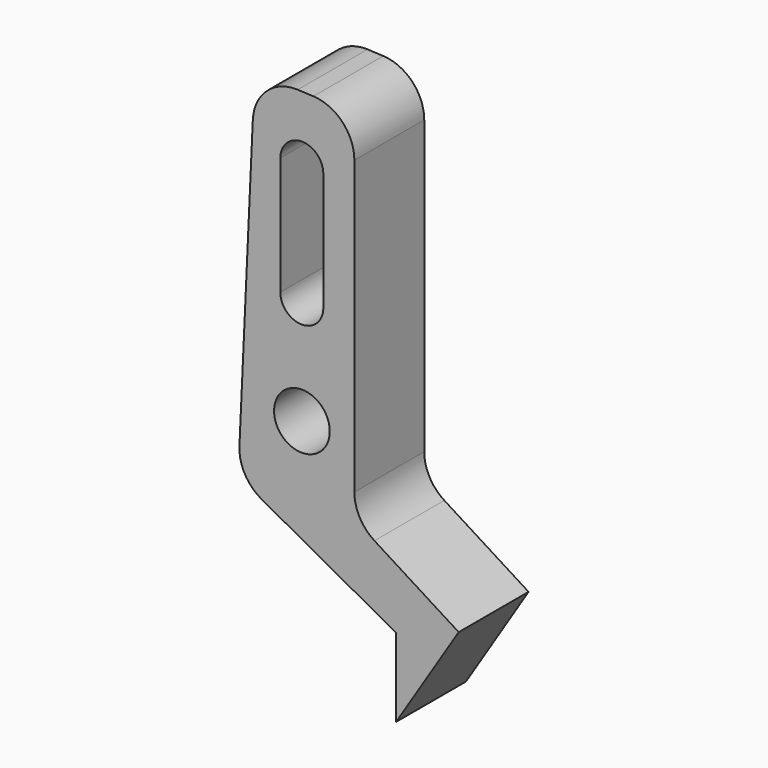
from build123d import *

# Parameters (mm, degrees)
F0_R     = 3.2385
F1_DEPTH = 10.16


with BuildPart() as f1:
    # F0 (on Front) → F1 (new body)
    with BuildSketch(Plane.XZ):
        with BuildLine():
            Line((3.585003, 18.526715), (3.585003, 36.057625))
            Line((3.585003, 36.057625), (3.585003, 52.501622))
            ThreePointArc((3.585003, 52.501622), (2.200711, 55.955121), (-1.18566, 57.496359))
            Line((-1.18566, 57.496359), (-3.002579, 57.579785))
            ThreePointArc((-3.002579, 57.579785), (-6.601563, 56.279026), (-8.226654, 52.814384))
            Line((-8.226654, 52.814384), (-9.784741, 18.880802))
            ThreePointArc((-9.784741, 18.880802), (-9.149958, 16.203853), (-7.195154, 14.267944))
            Line((-7.195154, 14.267944), (8.435435, 5.691751))
            Line((8.435435, 5.691751), (8.435435, -3.43795))
            Line((8.435435, -3.43795), (15.718861, 8.122647))
            Line((15.718861, 8.122647), (5.919749, 14.296298))
            ThreePointArc((5.919749, 14.296298), (4.207431, 16.110754), (3.585003, 18.526715))
        make_face()
        with Locations((-2.516599, 23.799028)):
            Circle(F0_R, mode=Mode.SUBTRACT)
        with BuildLine():
            Line((-5.026947, 36.188453), (-5.026947, 49.930584))
            ThreePointArc((-5.026947, 49.930584), (-2.526947, 52.430584), (-0.026947, 49.930584))
            Line((-0.026947, 49.930584), (-0.026947, 36.188453))
            ThreePointArc((-0.026947, 36.188453), (-2.526947, 33.688453), (-5.026947, 36.188453))
        make_face(mode=Mode.SUBTRACT)
    extrude(amount=F1_DEPTH)


solid = f1.part
